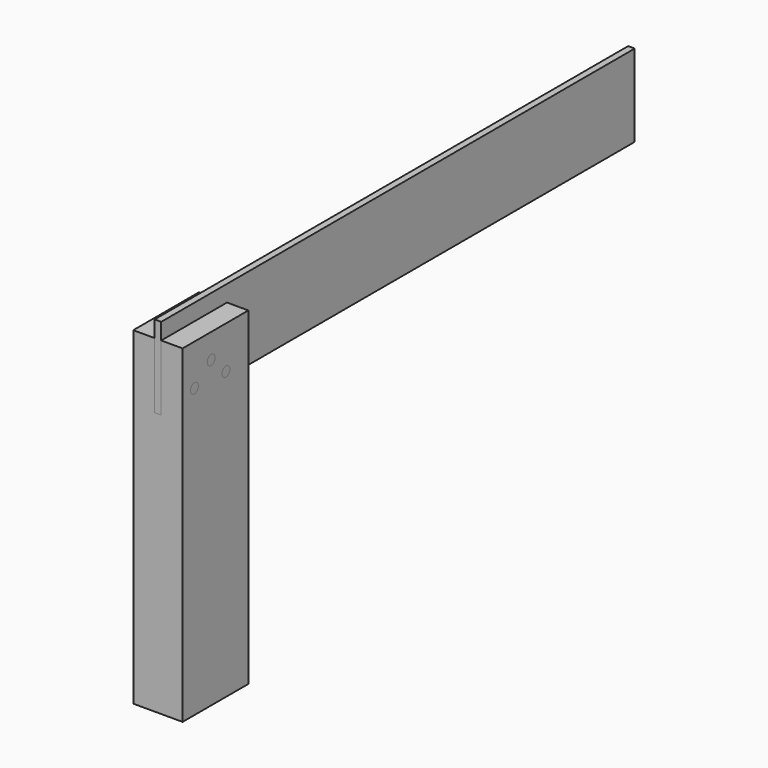
from build123d import *

# Parameters (mm, degrees)
F0_W      = 15
F0_H      = 100
F1_DEPTH  = 25
F2_W      = 2
F2_H      = 20
F3_DEPTH  = 25
F4_DEPTH  = 180
F5_DEPTH  = 5
F7_R      = 1.5
F8_DEPTH  = 15
F9_R      = 1.5
F10_DEPTH = 15


with BuildPart() as f1:
    # F0 (on Front) → F1 (new body)
    with BuildSketch(Plane.XZ):
        with Locations((-7.5, 50)):
            Rectangle(F0_W, F0_H)
    extrude(amount=F1_DEPTH)

    # F2 (on face) → F3 (cut)
    with BuildSketch(Plane.XZ.offset(25)):
        with Locations((-7.5, 90)):
            Rectangle(F2_W, F2_H)
    extrude(amount=-F3_DEPTH, mode=Mode.SUBTRACT)


with BuildPart() as f4:
    # F2 (on face) → F4 (new body)
    with BuildSketch(Plane.XZ.offset(25)):
        with Locations((-7.5, 90)):
            Rectangle(F2_W, F2_H)
    extrude(amount=-F4_DEPTH)

    # F5 (add): a face of the model
    f5_faces = [f4.faces().sort_by_distance(p)[0] for p in [
        (-7.5, 65, 100),
    ]]
    extrude(f5_faces, amount=F5_DEPTH)


with BuildPart() as f8_tool:
    # F7 (on face) → F8 (new body)
    with BuildSketch(Plane.YZ):
        with Locations((-14.1354007646, 92.5)):
            Circle(F7_R)
        with Locations((-20.4972922802, 87.5)):
            Circle(F7_R)
        with Locations((-8.5139255971, 87.1254205704)):
            Circle(F7_R)
    extrude(amount=-F8_DEPTH)


with BuildPart() as f1_1:
    add(f1.part)

    # F8: cut by f8_tool
    add(f8_tool.part, mode=Mode.SUBTRACT)


with BuildPart() as f4_1:
    add(f4.part)

    # F8: cut by f8_tool
    add(f8_tool.part, mode=Mode.SUBTRACT)


with BuildPart() as f10:
    # F9 (on face) → F10 (new body)
    with BuildSketch(Plane.YZ):
        with Locations((-14.1354007646, 92.5)):
            Circle(F9_R)
    extrude(amount=-F10_DEPTH)


with BuildPart() as f10b:
    # F9 (on face) → F10, piece 2 (new body)
    with BuildSketch(Plane.YZ):
        with Locations((-20.4972922802, 87.5)):
            Circle(F9_R)
    extrude(amount=-F10_DEPTH)


with BuildPart() as f10c:
    # F9 (on face) → F10, piece 3 (new body)
    with BuildSketch(Plane.YZ):
        with Locations((-8.5139255971, 87.1254205704)):
            Circle(F9_R)
    extrude(amount=-F10_DEPTH)


solid = Compound([f1_1.part, f4_1.part, f10.part, f10b.part, f10c.part])
